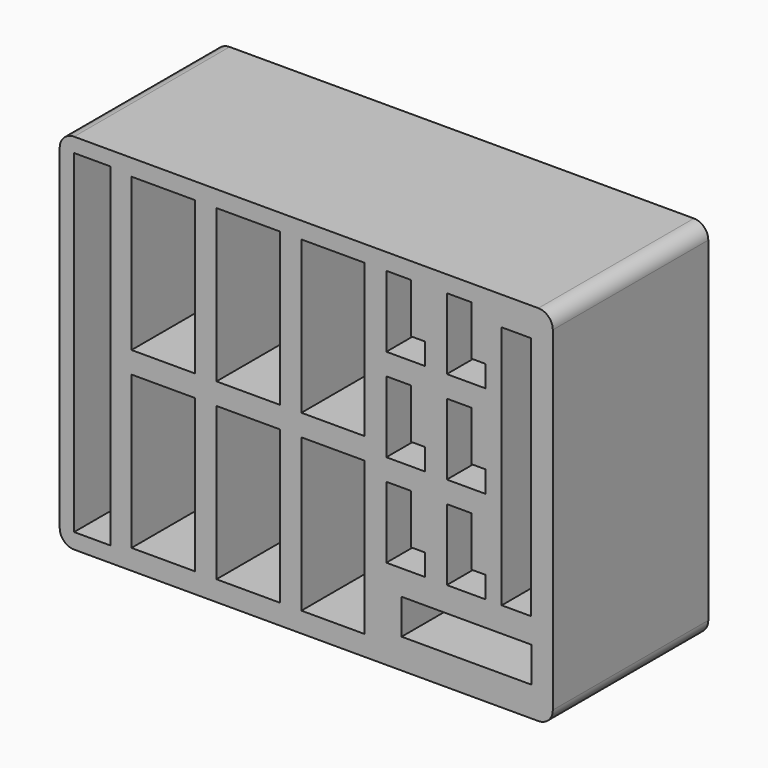
from build123d import *

# Parameters (mm, degrees)
F1_DEPTH = 270
F2_W     = 88
F2_H     = 212
F3_DEPTH = 178
F4_W     = 68
F4_H     = 172
F5_DEPTH = 5
F7_DEPTH = 146
F8_W     = 41
F8_H     = 340
F8_W_2   = 180.688232
F8_H_2   = 48.886035
F8_W_3   = 50.645926
F8_H_3   = 463.54628
F9_DEPTH = 200


with BuildPart() as f1:
    # F0 (on Front) → F1 (new body)
    with BuildSketch(Plane.XZ):
        with BuildLine():
            Line((-20, 505), (-665, 505))
            ThreePointArc((-665, 505), (-679.142136, 499.142136), (-685, 485))
            Line((-685, 485), (-685, 20))
            ThreePointArc((-685, 20), (-679.142136, 5.857864), (-665, 0))
            Line((-665, 0), (-20, 0))
            ThreePointArc((-20, 0), (-5.857864, 5.857864), (0, 20))
            Line((0, 20), (0, 485))
            ThreePointArc((0, 485), (-5.857864, 499.142136), (-20, 505))
        make_face()
    extrude(amount=-F1_DEPTH)

    # F2 (on face) → F3 (cut)
    with BuildSketch(Plane.XZ):
        with Locations((-541.250854, 134)):
            Rectangle(F2_W, F2_H)
        with Locations((-541.250854, 376)):
            Rectangle(F2_W, F2_H)
        with Locations((-423.250854, 134)):
            Rectangle(F2_W, F2_H)
        with Locations((-423.250854, 376)):
            Rectangle(F2_W, F2_H)
        with Locations((-305.250854, 134)):
            Rectangle(F2_W, F2_H)
        with Locations((-305.250854, 376)):
            Rectangle(F2_W, F2_H)
    extrude(amount=-F3_DEPTH, mode=Mode.SUBTRACT)

    # F4 (on face) → F5 (cut)
    with BuildSketch(Plane.XZ.offset(-178)):
        with Locations((-541.250854, 376)):
            Rectangle(F4_W, F4_H)
        with Locations((-423.250854, 376)):
            Rectangle(F4_W, F4_H)
        with Locations((-305.250854, 376)):
            Rectangle(F4_W, F4_H)
        with Locations((-305.250854, 134)):
            Rectangle(F4_W, F4_H)
        with Locations((-423.250854, 134)):
            Rectangle(F4_W, F4_H)
        with Locations((-541.250854, 134)):
            Rectangle(F4_W, F4_H)
    extrude(amount=-F5_DEPTH, mode=Mode.SUBTRACT)

    # F6 (on face) → F7 (cut)
    with BuildSketch(Plane.XZ):
        Polygon((-231.250854, 482), (-231.250854, 383), (-177.250854, 383), (-177.250854, 413), (-197.250854, 413), (-197.250854, 482), align=None)
        Polygon((-231.250854, 353), (-231.250854, 254), (-177.250854, 254), (-177.250854, 284), (-197.250854, 284), (-197.250854, 353), align=None)
        Polygon((-231.250854, 224), (-231.250854, 125), (-177.250854, 125), (-177.250854, 155), (-197.250854, 155), (-197.250854, 224), align=None)
        Polygon((-147.250854, 482), (-147.250854, 383), (-93.250854, 383), (-93.250854, 413), (-113.250854, 413), (-113.250854, 482), align=None)
        Polygon((-147.250854, 353), (-147.250854, 254), (-93.250854, 254), (-93.250854, 284), (-113.250854, 284), (-113.250854, 353), align=None)
        Polygon((-147.250854, 224), (-147.250854, 125), (-93.250854, 125), (-93.250854, 155), (-113.250854, 155), (-113.250854, 224), align=None)
    extrude(amount=-F7_DEPTH, mode=Mode.SUBTRACT)

    # F8 (on face) → F9 (cut)
    with BuildSketch(Plane.XZ):
        with Locations((-50.5, 295)):
            Rectangle(F8_W, F8_H)
        with Locations((-119.728997, 65.844511)):
            Rectangle(F8_W_2, F8_H_2)
        with Locations((-639.677037, 253.22686)):
            Rectangle(F8_W_3, F8_H_3)
    extrude(amount=-F9_DEPTH, mode=Mode.SUBTRACT)


solid = f1.part
